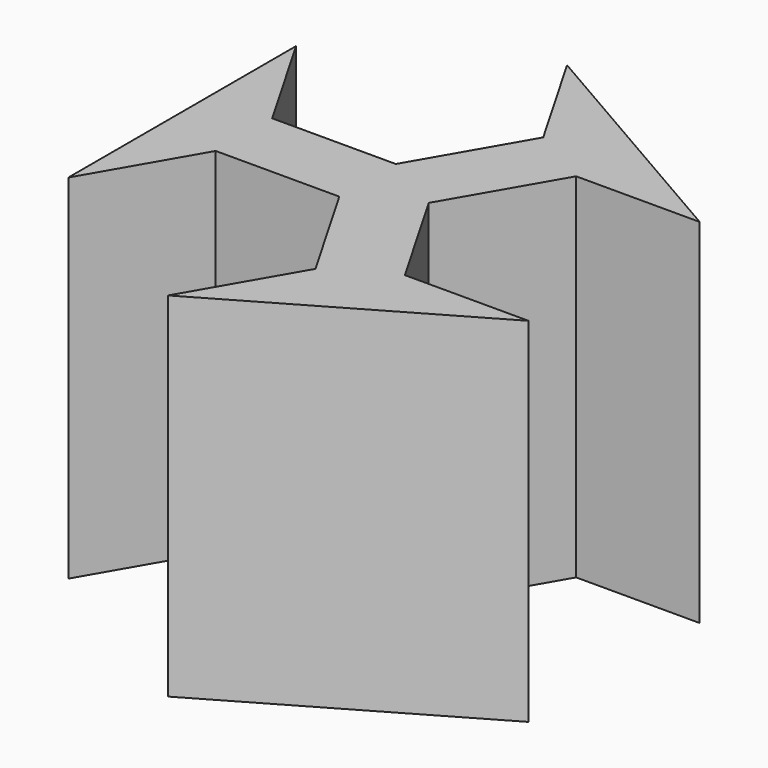
from build123d import *

# Parameters (mm, degrees)
PAD_DEPTH = 100


with BuildPart() as part:
    # Sketch → Pad (new body)
    with BuildSketch(Plane.XY):
        Polygon((17.5, -40.310895), (0, -10.000005), (-35, -10.000005), (-52.5, -40.310895), (-52.500006, 40.310884), (-35.000006, 9.999995), (-6e-06, 9.999995), (17.499994, 40.310884), (-6e-06, 70.621773), (69.820505, 30.310889), (34.820505, 30.310889), (17.320505, 0), (34.820505, -30.310889), (69.820505, -30.310889), (0, -70.621784), align=None)
    extrude(amount=PAD_DEPTH)


solid = part.part
